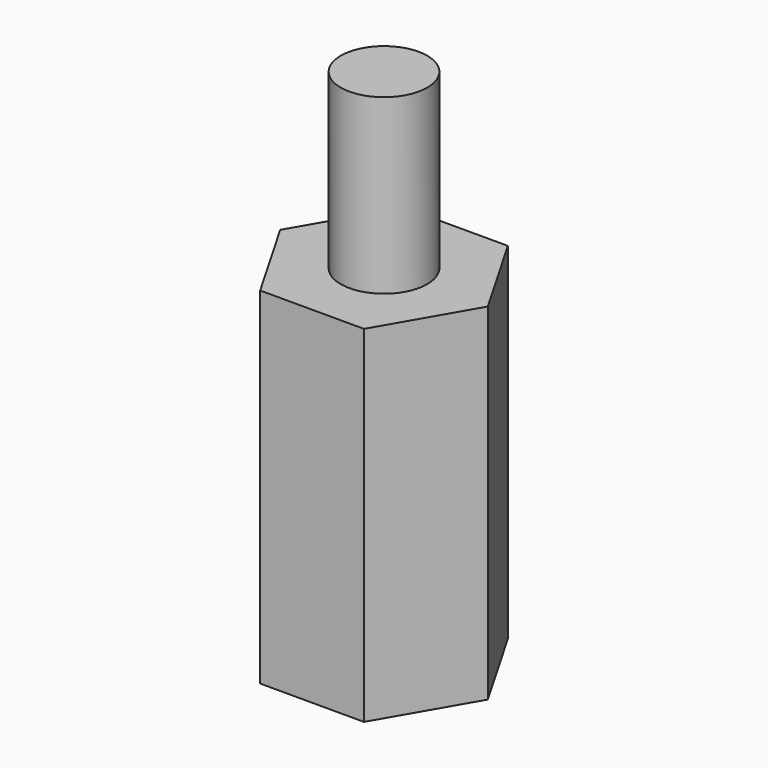
from build123d import *

# Parameters (mm, degrees)
F0_R     = 1.25
F1_DEPTH = 10
F2_DEPTH = 15
F3_DEPTH = 8


with BuildPart() as f1:
    # F0 (on Top) → F1 (new body)
    with BuildSketch(Plane.XY):
        Polygon((1.5, 2.598076), (-1.5, 2.598076), (-3, 0), (-1.5, -2.598076), (1.5, -2.598076), (3, 0), align=None)
        Circle(F0_R, mode=Mode.SUBTRACT)
    extrude(amount=F1_DEPTH)

    # F0 (on Top) → F2 (join)
    with BuildSketch(Plane.XY):
        Circle(F0_R)
    extrude(amount=F2_DEPTH)

    # F0 (on Top) → F3 (cut)
    with BuildSketch(Plane.XY):
        Circle(F0_R)
    extrude(amount=F3_DEPTH, mode=Mode.SUBTRACT)


solid = f1.part
